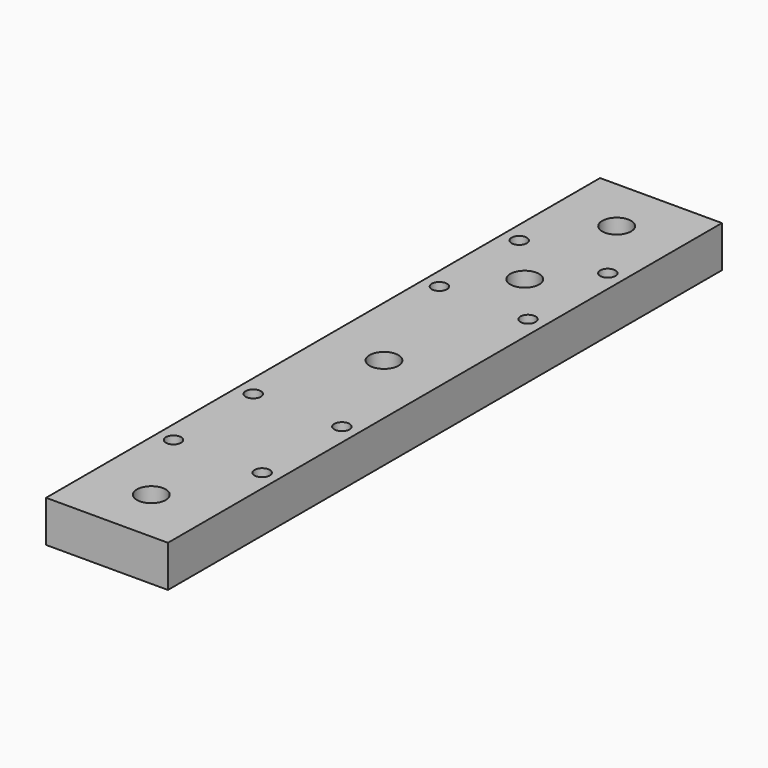
from build123d import *

# Parameters (mm, degrees)
SKETCH_W        = 44
SKETCH_H        = 250
PAD_DEPTH       = 15
SKETCH001_R     = 3.25
POCKET_DEPTH    = 15
SKETCH002_R     = 2.75
POCKET001_DEPTH = 15
SKETCH003_R     = 5.2
POCKET002_DEPTH = 6
SKETCH004_R     = 5.2
POCKET003_DEPTH = 15


with BuildPart() as part:
    # Sketch → Pad (new body)
    with BuildSketch(Plane.XY):
        with Locations((22, 125)):
            Rectangle(SKETCH_W, SKETCH_H)
    extrude(amount=PAD_DEPTH)

    # Sketch001 (on Face6 of Pad) → Pocket (cut)
    with BuildSketch(Plane.XY.offset(15)):
        with Locations((22, 230)):
            Circle(SKETCH001_R)
        with Locations((22, 125)):
            Circle(SKETCH001_R)
        with Locations((22, 20)):
            Circle(SKETCH001_R)
    extrude(amount=-POCKET_DEPTH, mode=Mode.SUBTRACT)

    # Sketch002 (on Face5 of Pocket) → Pocket001 (cut)
    with BuildSketch(Plane.XY.offset(15)):
        with Locations((6, 206)):
            Circle(SKETCH002_R)
        with Locations((38, 206)):
            Circle(SKETCH002_R)
        with Locations((6, 170)):
            Circle(SKETCH002_R)
        with Locations((38, 170)):
            Circle(SKETCH002_R)
        with Locations((6, 86)):
            Circle(SKETCH002_R)
        with Locations((38, 86)):
            Circle(SKETCH002_R)
        with Locations((6, 50)):
            Circle(SKETCH002_R)
        with Locations((38, 50)):
            Circle(SKETCH002_R)
    extrude(amount=-POCKET001_DEPTH, mode=Mode.SUBTRACT)

    # Sketch003 (on Face5 of Pocket001) → Pocket002 (cut)
    with BuildSketch(Plane.XY.offset(15)):
        with Locations((22, 20)):
            Circle(SKETCH003_R)
        with Locations((22, 125)):
            Circle(SKETCH003_R)
        with Locations((22, 230)):
            Circle(SKETCH003_R)
    extrude(amount=-POCKET002_DEPTH, mode=Mode.SUBTRACT)

    # Sketch004 (on Face5 of Pocket002) → Pocket003 (cut)
    with BuildSketch(Plane.XY.offset(15)):
        with Locations((22, 188.5)):
            Circle(SKETCH004_R)
    extrude(amount=-POCKET003_DEPTH, mode=Mode.SUBTRACT)


solid = part.part
